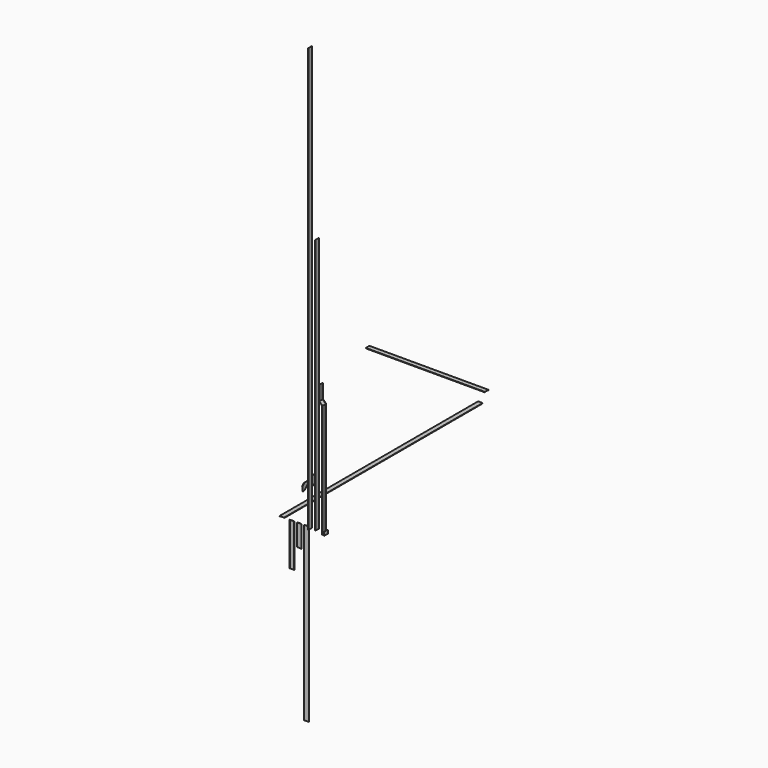
from build123d import *

# Parameters (mm, degrees)
F1_DEPTH  = 2900
F3_DEPTH  = 1.5
F2_W      = 1.5
F2_H      = 1.5
F2_W_2    = 107
F5_DEPTH  = 5
F4_W      = 110
F4_H      = 1.5
F8_DEPTH  = 1390
F12_DEPTH = 500
F14_DEPTH = 255
F16_DEPTH = 2010
F18_DEPTH = 4955
F20_DEPTH = 2990
F22_DEPTH = 1325
F24_DEPTH = 53
F26_DEPTH = 1.5
F28_DEPTH = 1.5
F30_DEPTH = 1.5
F32_DEPTH = 5
F33_W     = 1.5
F33_H     = 110
F34_DEPTH = 1.5
F35_W     = 1.5
F35_H     = 110
F36_DEPTH = 5
F38_DEPTH = 42.426


with BuildPart() as f1:
    # F0 (on Front) → F1 (new body)
    with BuildSketch(Plane.XZ):
        Polygon((26.5, 2.5), (-26.5, 2.5), (-26.5, -2.5), (-25, -2.5), (-25, 1), (25, 1), (25, -2.5), (26.5, -2.5), align=None)
    extrude(amount=-F1_DEPTH)


with BuildPart() as f3:
    # F2 (on face) → F3 (new body)
    with BuildSketch(Plane.XY.offset(2.5)):
        Polygon((-53.1268492341, 3159.1791344084), (-53.1268492341, 3107.1035304006), (-15.9251292085, 3065.7682859277), (36.2429143985, 3065.7682859277), (36.2429143985, 3097.8594257045), (-20.97491274, 3159.1791344084), align=None)
        Polygon((-15.2570856015, 3067.2682859277), (-51.6268492341, 3107.6791344084), (-51.6268492341, 3157.6791344084), (-21.6268492341, 3157.6791344084), (34.7429143985, 3097.2682859277), (34.7429143985, 3067.2682859277), align=None, mode=Mode.SUBTRACT)
        Polygon((-51.6268492341, 3157.6791344084), (-51.6268492341, 3107.6791344084), (-15.2570856015, 3067.2682859277), (34.7429143985, 3067.2682859277), (34.7429143985, 3097.2682859277), (-21.6268492341, 3157.6791344084), align=None)
    extrude(amount=-F3_DEPTH)

    # F4 (on face) → F5 (join)
    with BuildSketch(Plane.XY.offset(2.5)):
        Polygon((-15.2570856015, 3067.2682859277), (-51.6268492341, 3107.6791344084), (-53.1268492341, 3107.1035304006), (-15.9251292085, 3065.7682859277), (36.2429143985, 3065.7682859277), (36.2429143985, 3067.2682859277), align=None)
        Polygon((-20.97491274, 3159.1791344084), (-53.1268492341, 3159.1791344084), (-53.1268492341, 3157.6791344084), (-21.6268492341, 3157.6791344084), (34.1913179497, 3097.8594257045), (36.2429143985, 3097.8594257045), align=None)
    extrude(amount=-F5_DEPTH)


with BuildPart() as f3b:
    # F2 (on face) → F3, piece 2 (new body)
    with BuildSketch(Plane.XY.offset(2.5)):
        with Locations((35.4929143985, 3234.8632164001)):
            Rectangle(F2_W, F2_H)
        with Locations((-18.7570856015, 3234.8632164001)):
            Rectangle(F2_W_2, F2_H)
        Polygon((34.7429143985, 3235.6132164001), (36.2429143985, 3235.6132164001), (36.2429143985, 3287.1132164001), (7.7429143985, 3315.6132164002), (6.6822542268, 3314.5525562284), (34.7429143985, 3286.4918960566), align=None)
        with Locations((-73.0070856015, 3234.8632164001)):
            Rectangle(F2_W, F2_H)
        Polygon((-72.2570856015, 3235.6132164001), (34.7429143985, 3235.6132164001), (34.7429143985, 3286.4918960566), (6.6822542268, 3314.5525562284), (7.7429143985, 3315.6132164002), (-45.2570856015, 3315.6132164002), (-44.1964254297, 3314.5525562284), (-72.2570856015, 3286.4918960566), align=None)
        Polygon((-73.7570856015, 3235.6132164001), (-72.2570856015, 3235.6132164001), (-72.2570856015, 3286.4918960566), (-44.1964254297, 3314.5525562284), (-45.2570856015, 3315.6132164002), (-73.7570856015, 3287.1132164002), align=None)
    extrude(amount=-F3_DEPTH)

    # F4 (on face) → F5, piece 2 (join)
    with BuildSketch(Plane.XY.offset(2.5)):
        with Locations((-18.7570856015, 3234.8632164001)):
            Rectangle(F4_W, F4_H)
        Polygon((-45.2570856015, 3315.6132164002), (-73.7570856015, 3287.1132164002), (-72.2570856015, 3286.4918960566), (-44.1964254297, 3314.5525562284), align=None)
        Polygon((36.2429143986, 3287.1132164002), (7.7429143985, 3315.6132164002), (6.6822542268, 3314.5525562284), (34.7429143985, 3286.4918960566), align=None)
    extrude(amount=-F5_DEPTH)


with BuildPart() as f8:
    # F7 (on offset) → F8 (new body)
    with BuildSketch(Plane.YZ.offset(-116.5)):
        Polygon((3162.7369973628, -14.8281034827), (3109.7369973628, -14.8281034827), (3109.7369973628, -19.8281034827), (3111.2369973628, -19.8281034827), (3111.2369973628, -16.3281034827), (3161.2369973628, -16.3281034827), (3161.2369973628, -19.8281034827), (3162.7369973628, -19.8281034827), align=None)
    extrude(amount=-F8_DEPTH)


with BuildPart() as f12:
    # F11 (on Top) → F12 (new body)
    with BuildSketch(Plane.XY):
        Polygon((88.6783855637, 5), (88.6783855637, 0), (90.1783855637, 0), (90.1783855637, 3.5), (140.1783855637, 3.5), (140.1783855637, 0), (141.6783855637, 0), (141.6783855637, 5), align=None)
    extrude(amount=-F12_DEPTH)


with BuildPart() as f14:
    # F13 (on Top) → F14 (new body)
    with BuildSketch(Plane.XY):
        Polygon((173.6638098955, 6.1604457395), (173.6638098955, 1.1604457395), (175.1638098955, 1.1604457395), (175.1638098955, 4.6604457395), (225.1638098955, 4.6604457395), (225.1638098955, 1.1604457395), (226.6638098955, 1.1604457395), (226.6638098955, 6.1604457395), align=None)
    extrude(amount=-F14_DEPTH)


with BuildPart() as f16:
    # F15 (on Top) → F16 (new body)
    with BuildSketch(Plane.XY):
        Polygon((308.984041214, 6.9999982417), (308.984041214, 11.9999982417), (307.484041214, 11.9999982417), (307.484041214, 8.4999982417), (257.484041214, 8.4999982417), (257.484041214, 11.9999982417), (255.984041214, 11.9999982417), (255.984041214, 6.9999982417), align=None)
    extrude(amount=-F16_DEPTH)


with BuildPart() as f18:
    # F17 (on Top) → F18 (new body)
    with BuildSketch(Plane.XY):
        Polygon((346.9899594784, -49.2111159693), (351.9899594784, -49.2111159693), (351.9899594784, -47.7111159693), (348.4899594784, -47.7111159693), (348.4899594784, 2.2888840307), (351.9899594784, 2.2888840307), (351.9899594784, 3.7888840307), (346.9899594784, 3.7888840307), align=None)
    extrude(amount=F18_DEPTH)


with BuildPart() as f20:
    # F19 (on Top) → F20 (new body)
    with BuildSketch(Plane.XY):
        Polygon((406.7006984122, -21.3258991353), (411.7006984122, -21.3258991353), (411.7006984122, -19.8258991353), (408.2006984122, -19.8258991353), (408.2006984122, 30.1741008647), (411.7006984122, 30.1741008647), (411.7006984122, 31.6741008647), (406.7006984122, 31.6741008647), align=None)
    extrude(amount=F20_DEPTH)


with BuildPart() as f22:
    # F21 (on Top) → F22 (new body)
    with BuildSketch(Plane.XY):
        Polygon((504.5208015807, -43.74790968), (509.5208015807, -43.74790968), (509.5208015807, -42.24790968), (506.0208015807, -42.24790968), (506.0208015807, 7.75209032), (509.5208015807, 7.75209032), (509.5208015807, 9.25209032), (504.5208015807, 9.25209032), align=None)
    extrude(amount=F22_DEPTH)

    # F23 (on face) → F24 (join)
    with BuildSketch(Plane(origin=(0, 9.25209032, 0), x_dir=(-1, 0, 0), z_dir=(0, 1, 0))):
        Polygon((-506.6421219242, 1325), (-504.5208015807, 1325), (-469.5211372323, 1359.9996643484), (-469.5211372323, 1529.9996643484), (-471.0211372323, 1529.9996643484), (-471.0211372323, 1360.6209846919), align=None)
    extrude(amount=-F24_DEPTH)

    # F25 (on face) → F26 (join)
    with BuildSketch(Plane(origin=(0, 9.25209032, 0), x_dir=(-1, 0, 0), z_dir=(0, 1, 0))):
        Polygon((-469.5211372323, 1359.9996643484), (-469.5211372323, 1529.9996643484), (-474.5211372323, 1529.9996643484), (-474.5211372323, 1362.0707321603), (-509.5208015807, 1327.0710678119), (-509.5208015807, 1325), (-504.5208015807, 1325), align=None)
    extrude(amount=-F26_DEPTH)

    # F27 (on face) → F28 (join)
    with BuildSketch(Plane.XZ.offset(43.74790968)):
        Polygon((509.5208015807, 1325), (509.5208015807, 1327.0710678119), (474.5211372323, 1362.0707321603), (474.5211372323, 1529.9996643484), (471.0211372323, 1529.9996643484), (469.5211372323, 1529.9996643484), (469.5211372323, 1359.9996643484), (504.5208015807, 1325), (506.6421219242, 1325), align=None)
    extrude(amount=-F28_DEPTH)


with BuildPart() as f30:
    # F29 (on Right) → F30 (new body)
    with BuildSketch(Plane.YZ):
        Polygon((300.9817004204, 189.1530245543), (300.9817004204, 139.1530245543), (330.9817004204, 139.1530245543), (380.9817004204, 189.1530245543), (380.9817004204, 219.1530245543), (330.9817004204, 219.1530245543), align=None)
        Polygon((330.9817004204, 139.1530245543), (300.9817004204, 139.1530245543), (300.9817004204, 137.6530245543), (331.6030207639, 137.6530245543), (382.4817004204, 188.5317042107), (382.4817004204, 219.1530245543), (380.9817004204, 219.1530245543), (380.9817004204, 189.1530245543), align=None)
        Polygon((300.9817004204, 190.6530245543), (300.9817004204, 189.1530245543), (330.9817004204, 219.1530245543), (329.4817004204, 219.1530245543), align=None)
    extrude(amount=-F30_DEPTH)

    # F31 (on face) → F32 (join)
    with BuildSketch(Plane.YZ):
        Polygon((300.9817004204, 190.6530245543), (300.9817004204, 189.1530245543), (330.9817004204, 219.1530245543), (329.4817004204, 219.1530245543), align=None)
        Polygon((382.4817004204, 188.5317042107), (382.4817004204, 219.1530245543), (380.9817004204, 219.1530245543), (380.9817004204, 189.1530245543), (330.9817004204, 139.1530245543), (300.9817004204, 139.1530245543), (300.9817004204, 137.6530245543), (331.6030207639, 137.6530245543), align=None)
    extrude(amount=-F32_DEPTH)


with BuildPart() as f34:
    # F33 (on face) → F34 (new body)
    with BuildSketch(Plane.YZ):
        with Locations((413.7773685455, 192.6530245543)):
            Rectangle(F33_W, F33_H)
        Polygon((414.5273685455, 247.6530245543), (414.5273685455, 137.6530245543), (464.5273685455, 137.6530245543), (494.5273685455, 167.6530245543), (494.5273685455, 217.6530245543), (464.5273685455, 247.6530245543), align=None)
        Polygon((494.5273685455, 167.6530245543), (464.5273685455, 137.6530245543), (466.0273685455, 137.6530245543), (494.5273685455, 166.1530245543), align=None)
        Polygon((466.0273685455, 247.6530245543), (464.5273685455, 247.6530245543), (494.5273685455, 217.6530245543), (494.5273685455, 219.1530245543), align=None)
    extrude(amount=-F34_DEPTH)

    # F35 (on face) → F36 (join)
    with BuildSketch(Plane.YZ):
        with Locations((413.7773685455, 192.6530245543)):
            Rectangle(F35_W, F35_H)
        Polygon((464.5273685455, 247.6530245543), (494.5273685455, 217.6530245543), (494.5273685455, 219.1530245543), (466.0273685455, 247.6530245543), align=None)
        Polygon((466.0273685455, 137.6530245543), (494.5273685455, 166.1530245543), (494.5273685455, 167.6530245543), (464.5273685455, 137.6530245543), align=None)
    extrude(amount=-F36_DEPTH)


with BuildPart() as f38:
    # F37 (on Top) → F38 (new body)
    with BuildSketch(Plane.XY):
        Polygon((532.058924675, -52.4545780718), (537.058924675, -52.4545780718), (537.058924675, -50.9545780718), (533.558924675, -50.9545780718), (533.558924675, -0.9545780718), (537.058924675, -0.9545780718), (537.058924675, 0.5454219282), (532.058924675, 0.5454219282), align=None)
    extrude(amount=F38_DEPTH)


solid = Compound([f1.part, f8.part, f12.part, f14.part, f16.part, f18.part, f20.part, f22.part, f30.part, f34.part, f38.part])
